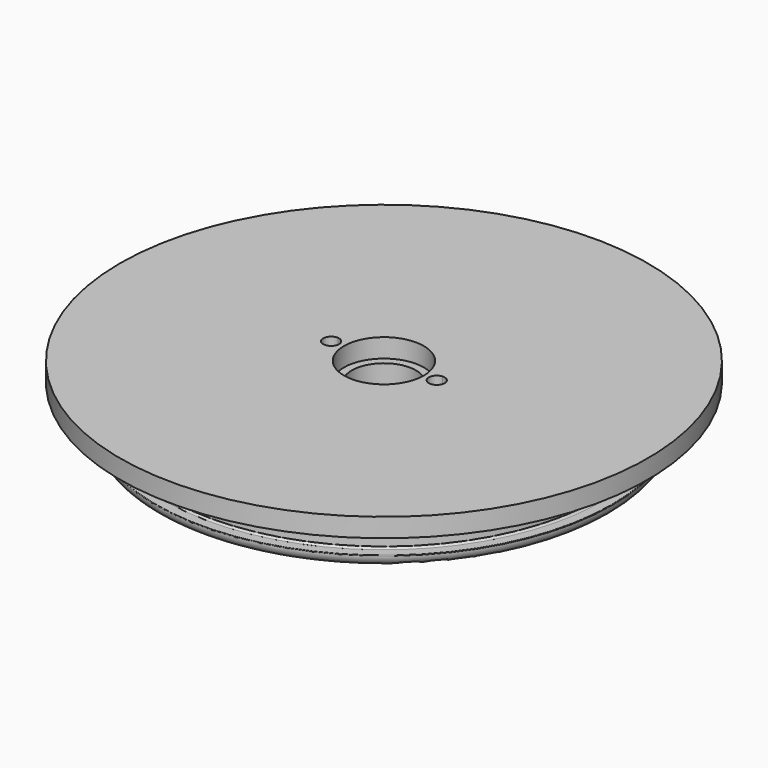
from build123d import *

# Parameters (mm, degrees)
F3_DEPTH = 12


with BuildPart() as f1:
    # F0 (on Front) → F1 (revolve)
    with BuildSketch(Plane.XZ):
        with BuildLine():
            Line((-10.6, -2.3210938089), (-10.6, 0))
            Line((-10.6, 0), (-70, 0))
            Line((-70, 0), (-70, -5))
            Line((-70, -5), (-60.45, -5))
            Line((-60.45, -5), (-60.45, -9.15))
            ThreePointArc((-60.45, -9.15), (-60.4060660172, -9.2560660172), (-60.3, -9.3))
            Line((-60.3, -9.3), (-57.88, -9.3))
            ThreePointArc((-57.88, -9.3), (-57.5264466094, -9.4464466094), (-57.38, -9.8))
            Line((-57.38, -9.8), (-57.38, -13.5))
            ThreePointArc((-57.38, -13.5), (-57.5264466094, -13.8535533906), (-57.88, -14))
            Line((-57.88, -14), (-60.2960498942, -14))
            ThreePointArc((-60.2960498942, -14), (-60.4048713317, -14.0467629198), (-60.4458419938, -14.1578947368))
            ThreePointArc((-60.4458419938, -14.1578947368), (-59.5147416048, -16.1764287503), (-57.45, -17))
            Line((-57.45, -17), (-54.45, -17))
            Line((-54.45, -17), (-54.45, -7))
            Line((-54.45, -7), (-46.45, -7))
            Line((-46.45, -7), (-46.45, -17))
            Line((-46.45, -17), (-25, -17))
            Line((-25, -17), (-25, -11))
            Line((-25, -11), (-25, -7))
            Line((-25, -7), (-8.5, -7))
            Line((-8.5, -7), (-8.5, -5))
            Line((-8.5, -5), (-10.6, -5))
            Line((-10.6, -5), (-10.6, -2.3210938089))
        make_face()
        Polygon((-8.5, -17), (-8.5, -7), (-25, -7), (-25, -11), (-25, -17), align=None)
    revolve(axis=Axis((0, 0, -8.5), (0, 0, -1)))

    # F2 (on face) → F3 (cut)
    with BuildSketch(Plane.XY):
        with BuildLine():
            ThreePointArc((-11.9, 0), (-12.4603977786, 1.4281544034), (-13.8425, 2.0940854209))
            ThreePointArc((-13.8425, 2.0940854209), (-14, 0), (-13.8425, -2.0940854209))
            ThreePointArc((-13.8425, -2.0940854209), (-12.4603977786, -1.4281544034), (-11.9, 0))
        make_face()
        with BuildLine():
            ThreePointArc((-13.8425, -2.0940854209), (-14, 0), (-13.8425, 2.0940854209))
            ThreePointArc((-13.8425, 2.0940854209), (-16.1, 0), (-13.8425, -2.0940854209))
        make_face()
        with BuildLine():
            ThreePointArc((13.8425, -2.0940854209), (13.9605694726, -1.05), (14, 0))
            ThreePointArc((14, 0), (13.9605694726, 1.05), (13.8425, 2.0940854209))
            ThreePointArc((13.8425, 2.0940854209), (11.9, 0), (13.8425, -2.0940854209))
        make_face()
        with BuildLine():
            ThreePointArc((13.8425, 2.0940854209), (13.9605694726, 1.05), (14, 0))
            ThreePointArc((14, 0), (13.9605694726, -1.05), (13.8425, -2.0940854209))
            ThreePointArc((13.8425, -2.0940854209), (15.4281544034, -1.5396022214), (16.1, 0))
            ThreePointArc((16.1, 0), (15.4281544034, 1.5396022214), (13.8425, 2.0940854209))
        make_face()
    extrude(amount=-F3_DEPTH, mode=Mode.SUBTRACT)


solid = f1.part
